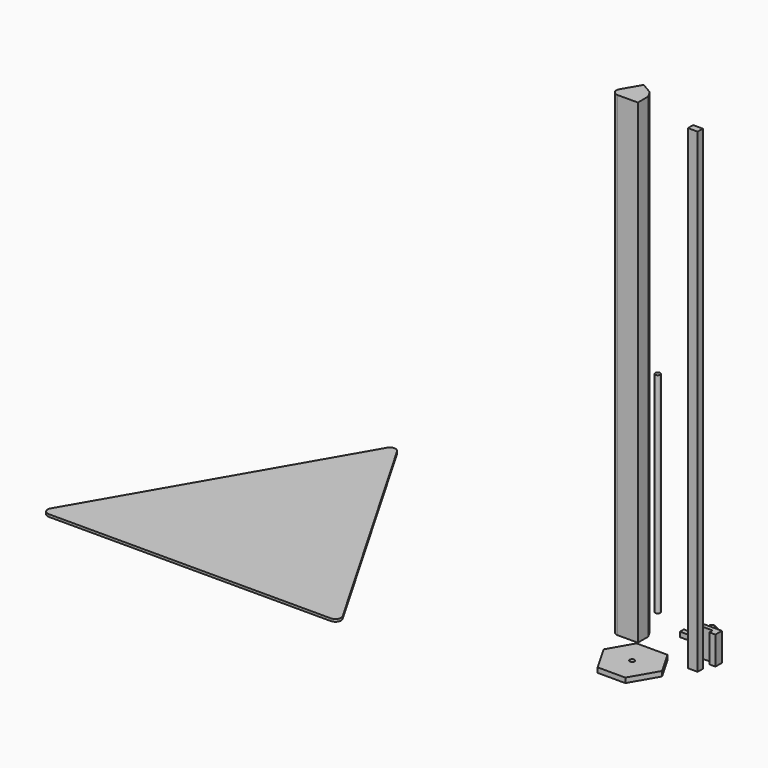
from build123d import *

# Parameters (mm, degrees)
F1_DEPTH  = 585
F2_W      = 12
F2_H      = 8
F3_DEPTH  = 585
F5_DEPTH  = 34.7
F8_R      = 3
F9_DEPTH  = 258
F10_W     = 34
F10_H     = 6
F11_DEPTH = 6
F12_R     = 3
F13_DEPTH = 6
F15_DEPTH = 3
F16_DEPTH = 1


with BuildPart() as f1:
    # F0 (on Top) → F1 (new body)
    with BuildSketch(Plane.XY):
        with BuildLine():
            ThreePointArc((-37.625637, -17.302601), (-37.625637, -24.302601), (-31.563459, -27.802601))
            Line((-31.563459, -27.802601), (-6.563459, -27.802601))
            Line((-6.563459, -27.802601), (-6.563459, -11.802601))
            Line((-6.563459, -11.802601), (-11.26923, -3.651966))
            Line((-11.26923, -3.651966), (-25.125637, 4.348034))
            Line((-25.125637, 4.348034), (-37.625637, -17.302601))
        make_face()
    extrude(amount=F1_DEPTH)


with BuildPart() as f3:
    # F2 (on Top) → F3 (new body)
    with BuildSketch(Plane.XY):
        with Locations((70.165452, -35.26907)):
            Rectangle(F2_W, F2_H)
    extrude(amount=F3_DEPTH)


with BuildPart() as f5:
    # F4 (on Top) → F5 (new body)
    with BuildSketch(Plane.XY):
        Polygon((82.708252, -10.115262), (55.708252, -10.115262), (55.708252, -20.115262), (63.208252, -20.115262), (63.208252, -15.115262), (75.208252, -15.115262), (75.208252, -20.115262), (82.708252, -20.115262), align=None)
    extrude(amount=F5_DEPTH)


with BuildPart() as f7:
    # F6 (on Top) → F7 (revolve)
    with BuildSketch(Plane.XY):
        with BuildLine():
            Line((36.813329, 36.887594), (36.813329, 40.583747))
            ThreePointArc((36.813329, 40.583747), (33.813329, 41.387594), (30.813329, 40.583747))
            Line((30.813329, 40.583747), (30.813329, 36.887594))
            Line((30.813329, 36.887594), (36.813329, 36.887594))
        make_face()
    revolve(axis=Axis((35.034446, 35.377819, 0), (1, 0, 0)))


with BuildPart() as f9:
    # F8 (on Top) → F9 (new body)
    with BuildSketch(Plane.XY):
        with Locations((-31.414777, 33.889171)):
            Circle(F8_R)
    extrude(amount=F9_DEPTH)


with BuildPart() as f11:
    # F10 (on Top) → F11 (new body)
    with BuildSketch(Plane.XY):
        with Locations((34.797049, 9.413773)):
            Rectangle(F10_W, F10_H)
    extrude(amount=F11_DEPTH)


with BuildPart() as f13:
    # F12 (on Top) → F13 (new body)
    with BuildSketch(Plane.XY):
        Polygon((-16.42655, -68.076786), (2.57345, -100.985751), (36.57345, -100.985751), (55.57345, -68.076786), (38.57345, -38.631922), (0.57345, -38.631922), align=None)
        with Locations((19.57345, -69.231486)):
            Circle(F12_R, mode=Mode.SUBTRACT)
    extrude(amount=F13_DEPTH)

    # F12 (on Top) → F16 (join)
    with BuildSketch(Plane.XY):
        Polygon((-16.42655, -68.076786), (2.57345, -100.985751), (36.57345, -100.985751), (55.57345, -68.076786), (38.57345, -38.631922), (0.57345, -38.631922), align=None)
        with Locations((19.57345, -69.231486)):
            Circle(F12_R, mode=Mode.SUBTRACT)
    extrude(amount=F16_DEPTH)


with BuildPart() as f15:
    # F14 (on Top) → F15 (new body)
    with BuildSketch(Plane.XY):
        with BuildLine():
            ThreePointArc((-435.918998, 138.59213), (-441.981176, 142.09213), (-448.043354, 138.59213))
            Line((-448.043354, 138.59213), (-460.543354, 116.941495))
            Line((-460.543354, 116.941495), (-446.686948, 108.941495))
            Line((-446.686948, 108.941495), (-437.275405, 108.941495))
            Line((-437.275405, 108.941495), (-423.418998, 116.941495))
            Line((-423.418998, 116.941495), (-435.918998, 138.59213))
        make_face()
        Polygon((-446.686948, 108.941495), (-460.543354, 116.941495), (-609.043354, -140.26805), (-595.186948, -148.26805), (-590.481176, -156.418685), (-590.481176, -172.418685), (-293.481176, -172.418685), (-293.481176, -156.418685), (-288.775405, -148.26805), (-274.918998, -140.26805), (-423.418998, 116.941495), (-437.275405, 108.941495), align=None)
        with BuildLine():
            Line((-595.186948, -148.26805), (-609.043354, -140.26805))
            Line((-609.043354, -140.26805), (-621.543354, -161.918685))
            ThreePointArc((-621.543354, -161.918685), (-621.543354, -168.918685), (-615.481176, -172.418685))
            Line((-615.481176, -172.418685), (-590.481176, -172.418685))
            Line((-590.481176, -172.418685), (-590.481176, -156.418685))
            Line((-590.481176, -156.418685), (-595.186948, -148.26805))
        make_face()
        with BuildLine():
            Line((-262.418998, -161.918685), (-274.918998, -140.26805))
            Line((-274.918998, -140.26805), (-288.775405, -148.26805))
            Line((-288.775405, -148.26805), (-293.481176, -156.418685))
            Line((-293.481176, -156.418685), (-293.481176, -172.418685))
            Line((-293.481176, -172.418685), (-268.481176, -172.418685))
            ThreePointArc((-268.481176, -172.418685), (-262.418998, -168.918685), (-262.418998, -161.918685))
        make_face()
    extrude(amount=-F15_DEPTH)


solid = Compound([f1.part, f3.part, f5.part, f7.part, f9.part, f11.part, f13.part, f15.part])
